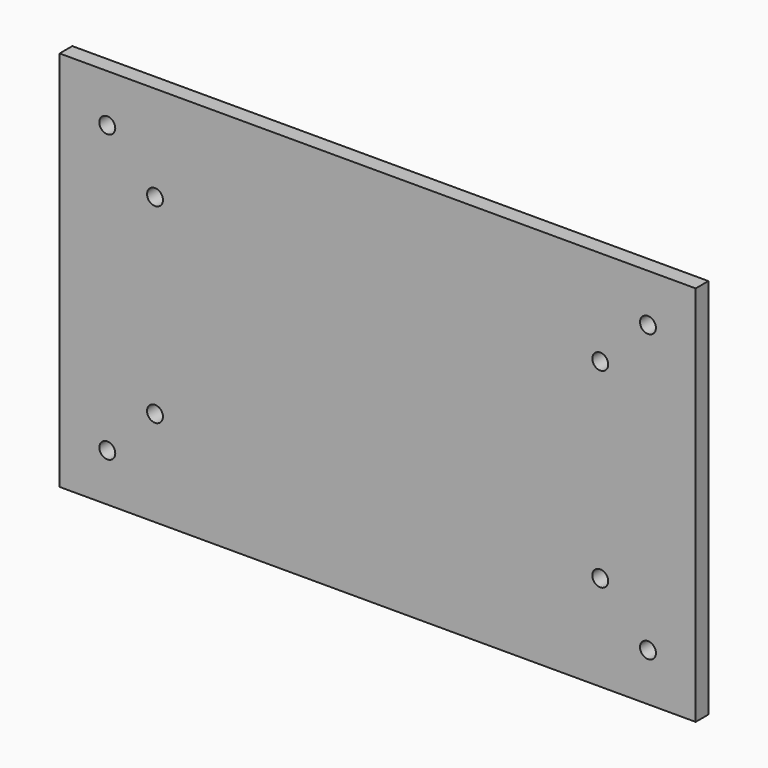
from build123d import *

# Parameters (mm, degrees)
F0_W     = 200
F0_H     = 120
F0_R     = 2.5
F1_DEPTH = 5


with BuildPart() as f1:
    # F0 (on Front) → F1 (new body)
    with BuildSketch(Plane.XZ):
        with Locations((100, 60)):
            Rectangle(F0_W, F0_H)
        with Locations((15, 15)):
            Circle(F0_R, mode=Mode.SUBTRACT)
        with Locations((30, 30)):
            Circle(F0_R, mode=Mode.SUBTRACT)
        with Locations((185, 15)):
            Circle(F0_R, mode=Mode.SUBTRACT)
        with Locations((170, 30)):
            Circle(F0_R, mode=Mode.SUBTRACT)
        with Locations((30, 90)):
            Circle(F0_R, mode=Mode.SUBTRACT)
        with Locations((15, 105)):
            Circle(F0_R, mode=Mode.SUBTRACT)
        with Locations((170, 90)):
            Circle(F0_R, mode=Mode.SUBTRACT)
        with Locations((185, 105)):
            Circle(F0_R, mode=Mode.SUBTRACT)
    extrude(amount=F1_DEPTH)


solid = f1.part
